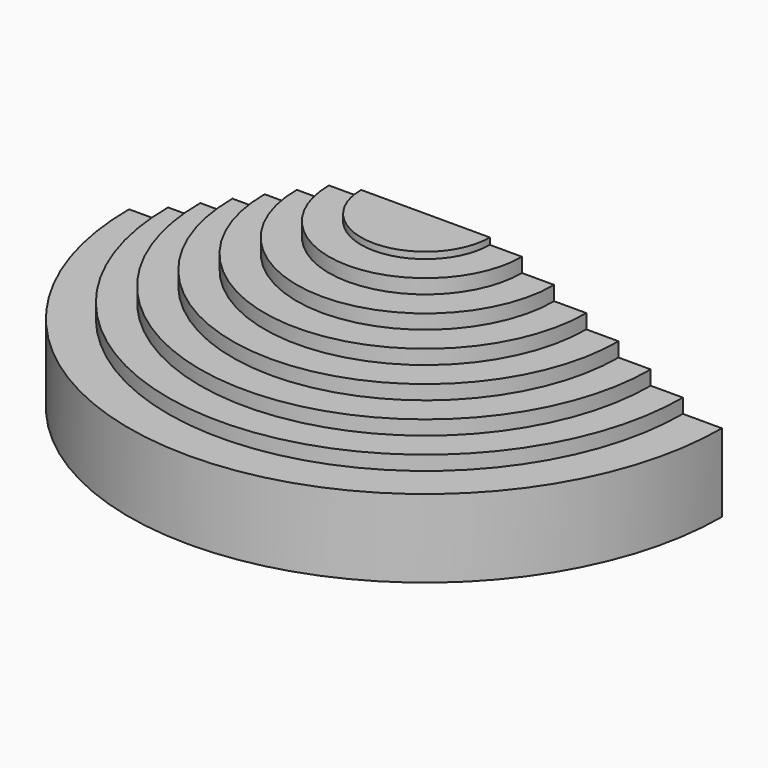
from build123d import *

# Parameters (mm, degrees)
F1_ANGLE = 180
F2_W     = 500
F2_H     = 800
F3_ANGLE = 180
F4_W     = 2540
F4_H     = 400
F5_ANGLE = -180


with BuildPart() as f1:
    # F0 (on Front) → F1 (revolve)
    with BuildSketch(Plane.XZ):
        Polygon((-660, 949), (-660, 882), (-990, 882), (-990, 735), (-1320, 735), (-1320, 588), (-1650, 588), (-1650, 441), (-1980, 441), (-1980, 294), (-2310, 294), (-2310, 147), (-2640, 147), (-2640, 0), (0, 0), (0, 949), align=None)
    revolve(axis=Axis((0, 0, 474.5), (0, 0, 1)), revolution_arc=F1_ANGLE)


with BuildPart() as f3:
    # F2 (on Front) → F3 (revolve)
    with BuildSketch(Plane.XZ):
        with Locations((-2790, -400)):
            Rectangle(F2_W, F2_H)
    revolve(axis=Axis((0, 0, 474.5), (0, 0, 1)), revolution_arc=F3_ANGLE)


with BuildPart() as f5:
    # F4 (on Front) → F5 (revolve)
    with BuildSketch(Plane.XZ):
        with Locations((-1270, -200)):
            Rectangle(F4_W, F4_H)
    revolve(axis=Axis((0, 0, -200), (0, 0, -1)), revolution_arc=F5_ANGLE)


solid = Compound([f1.part, f3.part, f5.part])
